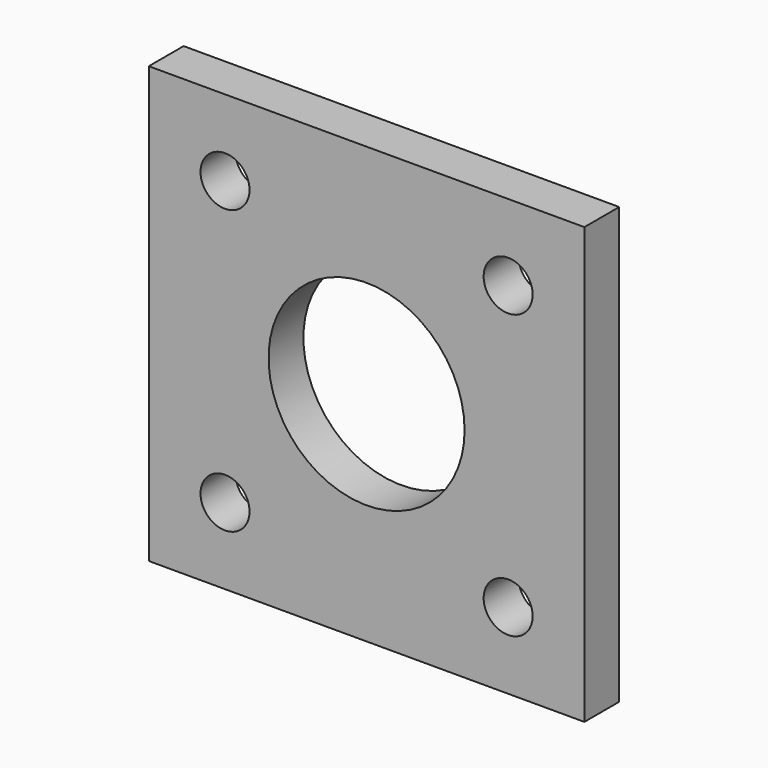
from build123d import *

# Parameters (mm, degrees)
F0_W     = 40
F0_H     = 40
F0_R     = 2.25
F0_R_2   = 9
F1_DEPTH = 4


with BuildPart() as f1:
    # F0 (on Front) → F1 (new body)
    with BuildSketch(Plane.XZ):
        with Locations((20, 20)):
            Rectangle(F0_W, F0_H)
        with Locations((7.000001, 7)):
            Circle(F0_R, mode=Mode.SUBTRACT)
        with Locations((33, 7)):
            Circle(F0_R, mode=Mode.SUBTRACT)
        with Locations((20.000002, 19.999999)):
            Circle(F0_R_2, mode=Mode.SUBTRACT)
        with Locations((7, 33)):
            Circle(F0_R, mode=Mode.SUBTRACT)
        with Locations((33, 33)):
            Circle(F0_R, mode=Mode.SUBTRACT)
    extrude(amount=F1_DEPTH)


solid = f1.part
